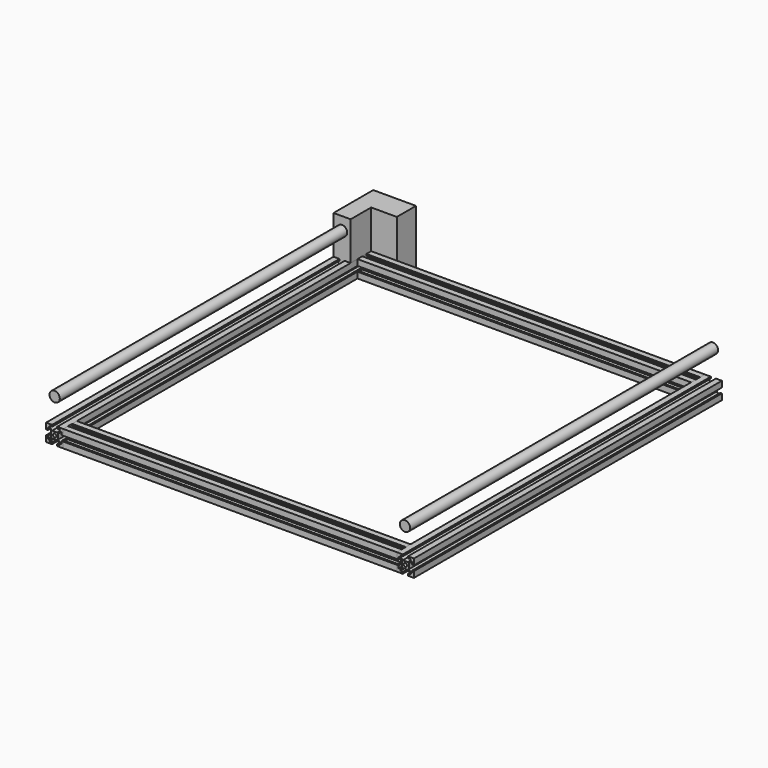
from build123d import *

# Parameters (mm, degrees)
OBJ1            = 2
EXTRUDE_DEPTH          = 450
EXTRUDE_ROLL_ANGLE     = 90
OBJ2         = 2
EXTRUDE001_DEPTH       = 450
EXTRUDE001_ROLL_ANGLE  = 90
OBJ3         = 2
EXTRUDE002_DEPTH       = 390
EXTRUDE002_PITCH_ANGLE = 90
OBJ4         = 2
EXTRUDE003_DEPTH       = 390
EXTRUDE003_PITCH_ANGLE = 90
CYLINDER_R             = 6
CYLINDER_DEPTH         = 450
CYLINDER_ROLL_ANGLE    = 90
CYLINDER001_R          = 6
CYLINDER001_DEPTH      = 450
CYLINDER001_ROLL_ANGLE = 90
BOX001_W               = 20
BOX001_H               = 30
BOX001_DEPTH           = 45
PAD001_DEPTH           = 30
PAD_DEPTH              = 30
BOX_W                  = 50
BOX_H                  = 28
BOX_DEPTH              = 65


with BuildPart() as obj5:
    with BuildSketch(Plane(origin=(0, 0, 0.5), x_dir=(0, 1, 0), z_dir=(0, 0, 1))):
        Polygon((-3, 8), (-3, 10), (-10, 10), (-10, 3), (-8, 3), (-8, 6), (-7, 6), (-4, 3), (-4, -3), (-7, -6), (-8, -6), (-8, -3), (-10, -3), (-10, -10), (-3, -10), (-3, -8), (-6, -8), (-6, -7), (-3, -4), (3, -4), (6, -7), (6, -8), (3, -8), (3, -10), (10, -10), (10, -3), (8, -3), (8, -6), (7, -6), (4, -3), (4, 3), (7, 6), (8, 6), (8, 3), (10, 3), (10, 10), (3, 10), (3, 8), (6, 8), (6, 7), (3, 4), (-3, 4), (-6, 7), (-6, 8), align=None)
        Circle(OBJ1, mode=Mode.SUBTRACT)
    extrude(amount=EXTRUDE_DEPTH)


with BuildPart() as obj5_1:
    # Extrude roll: moved
    add(obj5.part.rotate(Axis((0, 0, 0), (1, 0, 0)), EXTRUDE_ROLL_ANGLE))


with BuildPart() as obj5_2:
    # Extrude placement: moved
    add(obj5_1.part.moved(Location((0, 0.5, 0))))


with BuildPart() as obj6:
    with BuildSketch(Plane(origin=(0, 0, 0.5), x_dir=(0, 1, 0), z_dir=(0, 0, 1))):
        Polygon((-3, 8), (-3, 10), (-10, 10), (-10, 3), (-8, 3), (-8, 6), (-7, 6), (-4, 3), (-4, -3), (-7, -6), (-8, -6), (-8, -3), (-10, -3), (-10, -10), (-3, -10), (-3, -8), (-6, -8), (-6, -7), (-3, -4), (3, -4), (6, -7), (6, -8), (3, -8), (3, -10), (10, -10), (10, -3), (8, -3), (8, -6), (7, -6), (4, -3), (4, 3), (7, 6), (8, 6), (8, 3), (10, 3), (10, 10), (3, 10), (3, 8), (6, 8), (6, 7), (3, 4), (-3, 4), (-6, 7), (-6, 8), align=None)
        Circle(OBJ2, mode=Mode.SUBTRACT)
    extrude(amount=EXTRUDE001_DEPTH)


with BuildPart() as obj6_1:
    # Extrude001 roll: moved
    add(obj6.part.rotate(Axis((0, 0, 0), (1, 0, 0)), EXTRUDE001_ROLL_ANGLE))


with BuildPart() as obj6_2:
    # Extrude001 placement: moved
    add(obj6_1.part.moved(Location((410, 0.5, 0))))


with BuildPart() as obj7:
    with BuildSketch(Plane(origin=(0, 0, 0.5), x_dir=(0, 1, 0), z_dir=(0, 0, 1))):
        Polygon((-3, 8), (-3, 10), (-10, 10), (-10, 3), (-8, 3), (-8, 6), (-7, 6), (-4, 3), (-4, -3), (-7, -6), (-8, -6), (-8, -3), (-10, -3), (-10, -10), (-3, -10), (-3, -8), (-6, -8), (-6, -7), (-3, -4), (3, -4), (6, -7), (6, -8), (3, -8), (3, -10), (10, -10), (10, -3), (8, -3), (8, -6), (7, -6), (4, -3), (4, 3), (7, 6), (8, 6), (8, 3), (10, 3), (10, 10), (3, 10), (3, 8), (6, 8), (6, 7), (3, 4), (-3, 4), (-6, 7), (-6, 8), align=None)
        Circle(OBJ3, mode=Mode.SUBTRACT)
    extrude(amount=EXTRUDE002_DEPTH)


with BuildPart() as obj7_1:
    # Extrude002 pitch: moved
    add(obj7.part.rotate(Axis((0, 0, 0), (0, 1, 0)), EXTRUDE002_PITCH_ANGLE))


with BuildPart() as obj7_2:
    # Extrude002 placement: moved
    add(obj7_1.part.moved(Location((9.5, -10, 0))))


with BuildPart() as obj8:
    with BuildSketch(Plane(origin=(0, 0, 0.5), x_dir=(0, 1, 0), z_dir=(0, 0, 1))):
        Polygon((-3, 8), (-3, 10), (-10, 10), (-10, 3), (-8, 3), (-8, 6), (-7, 6), (-4, 3), (-4, -3), (-7, -6), (-8, -6), (-8, -3), (-10, -3), (-10, -10), (-3, -10), (-3, -8), (-6, -8), (-6, -7), (-3, -4), (3, -4), (6, -7), (6, -8), (3, -8), (3, -10), (10, -10), (10, -3), (8, -3), (8, -6), (7, -6), (4, -3), (4, 3), (7, 6), (8, 6), (8, 3), (10, 3), (10, 10), (3, 10), (3, 8), (6, 8), (6, 7), (3, 4), (-3, 4), (-6, 7), (-6, 8), align=None)
        Circle(OBJ4, mode=Mode.SUBTRACT)
    extrude(amount=EXTRUDE003_DEPTH)


with BuildPart() as obj8_1:
    # Extrude003 pitch: moved
    add(obj8.part.rotate(Axis((0, 0, 0), (0, 1, 0)), EXTRUDE003_PITCH_ANGLE))


with BuildPart() as obj8_2:
    # Extrude003 placement: moved
    add(obj8_1.part.moved(Location((9.5, -440, 0))))


with BuildPart() as obj9:
    # Cylinder → Cylinder (new body)
    with BuildSketch(Plane.XY):
        Circle(CYLINDER_R)
    extrude(amount=CYLINDER_DEPTH)


with BuildPart() as obj9_1:
    # Cylinder roll: moved
    add(obj9.part.rotate(Axis((0, 0, 0), (1, 0, 0)), CYLINDER_ROLL_ANGLE))


with BuildPart() as obj9_2:
    # Cylinder placement: moved
    add(obj9_1.part.moved(Location((0, 0, 40))))


with BuildPart() as obj10:
    # Cylinder001 → Cylinder001 (new body)
    with BuildSketch(Plane.XY):
        Circle(CYLINDER001_R)
    extrude(amount=CYLINDER001_DEPTH)


with BuildPart() as obj10_1:
    # Cylinder001 roll: moved
    add(obj10.part.rotate(Axis((0, 0, 0), (1, 0, 0)), CYLINDER001_ROLL_ANGLE))


with BuildPart() as obj10_2:
    # Cylinder001 placement: moved
    add(obj10_1.part.moved(Location((409.5, 0, 40))))


with BuildPart() as cubo001:
    # Box001 → Box001 (new body)
    with BuildSketch(Plane(origin=(-10, -30, 10), x_dir=(1, 0, 0), z_dir=(0, 0, 1))):
        with Locations((10, 15)):
            Rectangle(BOX001_W, BOX001_H)
    extrude(amount=BOX001_DEPTH)


with BuildPart() as t_interior_x1_pad:
    # Sketch001 → Pad001 (new body)
    with BuildSketch(Plane(origin=(10, -10, 0), x_dir=(0, 0.01111, -0.999938), z_dir=(0.999938, 0.01111, 0.000123))):
        Polygon((-3, 10), (-3, 8), (-6, 8), (-6, 7), (-3, 4), (0, 4), (3, 4), (6, 7), (6, 8), (3, 8), (3, 10), align=None)
    extrude(amount=PAD001_DEPTH)


with BuildPart() as t_interior_y1_pad:
    # Sketch → Pad (new body)
    with BuildSketch(Plane.XZ):
        Polygon((-3, 10), (-3, 8), (-6, 8), (-6, 7), (-3, 4), (0, 4), (3, 4), (6, 7), (6, 8), (3, 8), (3, 10), align=None)
    extrude(amount=PAD_DEPTH)


with BuildPart() as obj11:
    # Box → Box (new body)
    with BuildSketch(Plane(origin=(-10, 0, -10), x_dir=(1, 0, 0), z_dir=(0, 0, 1))):
        with Locations((25, 14)):
            Rectangle(BOX_W, BOX_H)
    extrude(amount=BOX_DEPTH)

    # Fusion: union Cubo001, t_interior_X1_pad, t_interior_Y1_pad
    add(cubo001.part)
    add(t_interior_x1_pad.part)
    add(t_interior_y1_pad.part)


solid = Compound([obj5_2.part, obj6_2.part, obj7_2.part, obj8_2.part, obj9_2.part, obj10_2.part, obj11.part])
